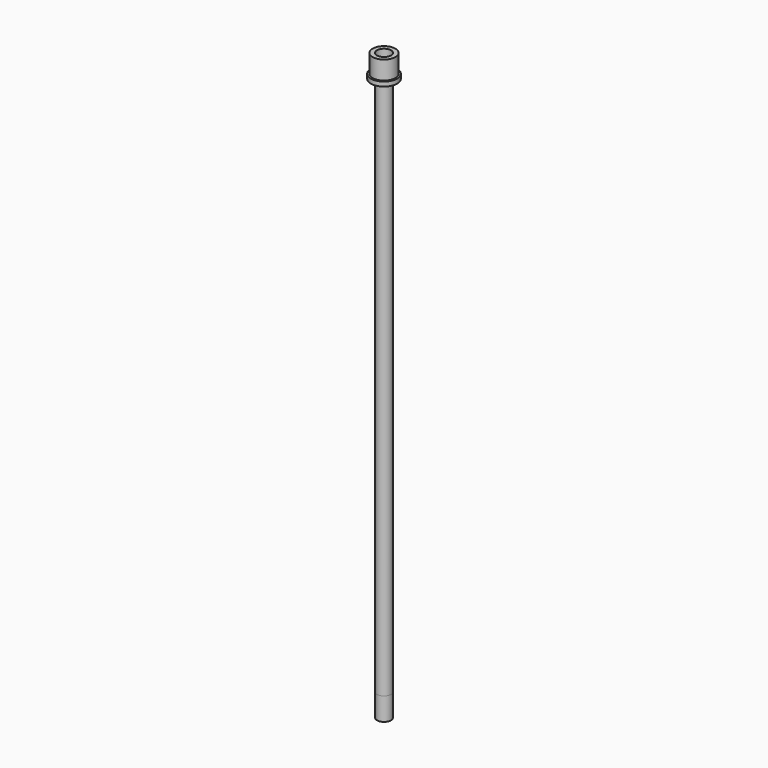
from build123d import *

# Parameters (mm, degrees)
F0_R      = 7.5
F0_R_2    = 6.5
F0_R_3    = 4
F1_DEPTH  = 2.5
F2_DEPTH  = 320
F2_FACE_R = 4
F3_DEPTH  = 13


with BuildPart() as f1:
    # F0 (on Top) → F1 (new body)
    with BuildSketch(Plane.XY):
        Circle(F0_R)
        Circle(F0_R_2, mode=Mode.SUBTRACT)
        Circle(F0_R_2)
        Circle(F0_R_3, mode=Mode.SUBTRACT)
        Circle(F0_R_3)
    extrude(amount=F1_DEPTH)


with BuildPart() as f2:
    # F0 (on Top) → F2 (new body)
    with BuildSketch(Plane.XY):
        Circle(F0_R_3)
    extrude(amount=-F2_DEPTH)


with BuildPart() as f3:
    # F0 (on Top) + F2_face (on face) → F3 (new body)
    with BuildSketch(Plane.XY):
        Circle(F0_R_2)
        Circle(F0_R_3, mode=Mode.SUBTRACT)
    with BuildSketch(Plane(origin=(0, 0, -320), x_dir=(1, 0, 0), z_dir=(0, 0, -1))):
        Circle(F2_FACE_R)
    extrude(amount=F3_DEPTH, dir=(0, 0, 1))


solid = Compound([f1.part, f2.part, f3.part])
